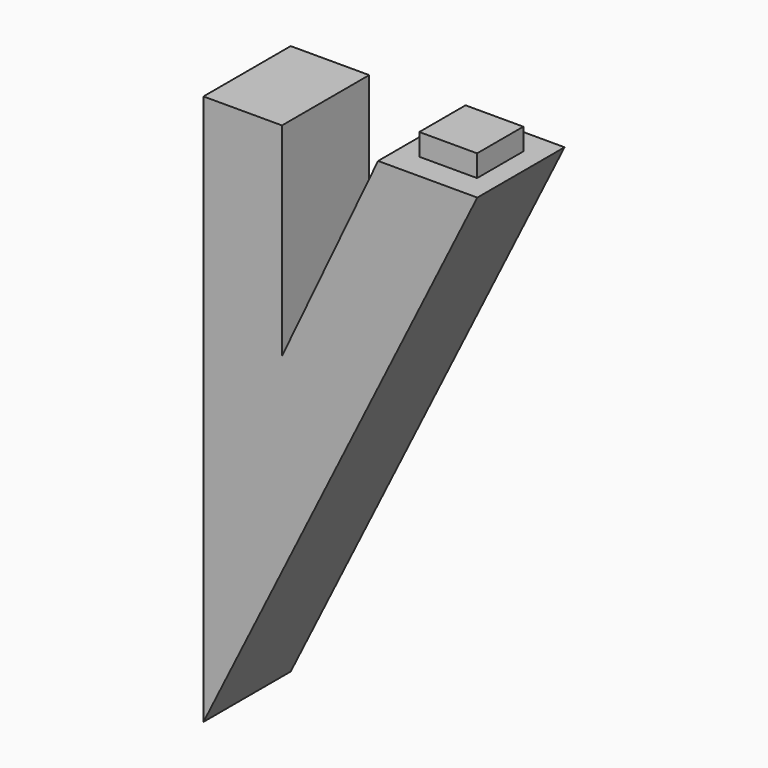
from build123d import *

# Parameters (mm, degrees)
F1_DEPTH = 10
F2_W     = 2.65
F2_H     = 2.65
F3_DEPTH = 2


with BuildPart() as f1:
    # F0 (on Front) → F1 (new body)
    with BuildSketch(Plane.XZ):
        Polygon((7.2, 0), (0, 0), (0, -50.5), (25.11394, 0), (16.01394, 0), (7.2, -18.62), align=None)
    extrude(amount=F1_DEPTH)

    # F2 (on face) → F3 (join)
    with BuildSketch(Plane.XY):
        with Locations((21.88894, -3.675)):
            Rectangle(F2_W, F2_H)
        with Locations((19.23894, -3.675)):
            Rectangle(F2_W, F2_H)
        with Locations((21.88894, -6.325)):
            Rectangle(F2_W, F2_H)
        with Locations((19.23894, -6.325)):
            Rectangle(F2_W, F2_H)
    extrude(amount=F3_DEPTH)


solid = f1.part
